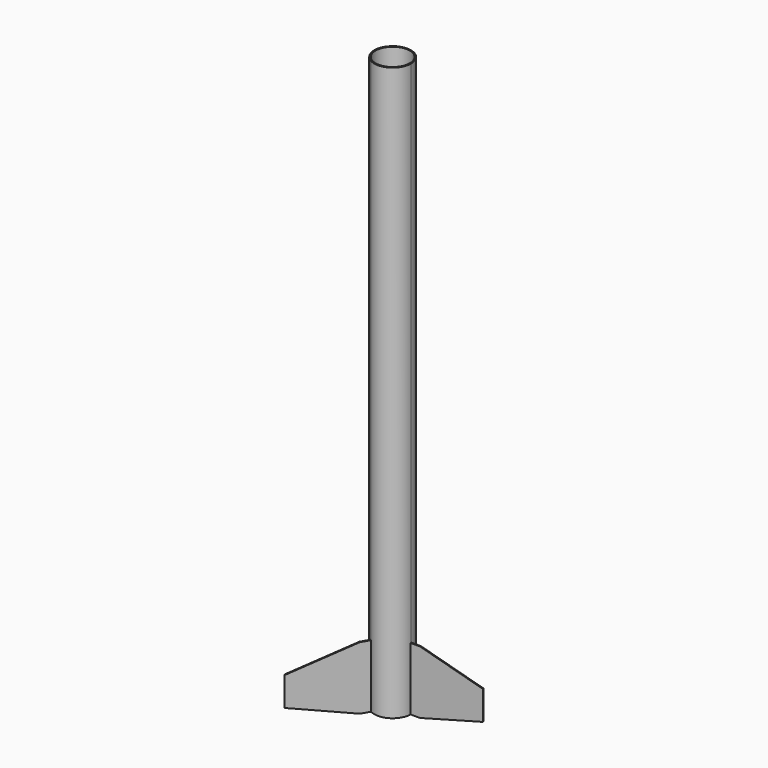
from build123d import *

# Parameters (mm, degrees)
F0_R       = 27.18
F1_DEPTH   = 910
F2_DEPTH   = 100
F3_SIZE2   = 100
F3_SIZE    = 27
F3_2_SIZE2 = 100
F3_2_SIZE  = 27
F3_3_SIZE2 = 100
F3_3_SIZE  = 27
F4_SIZE2   = 27
F4_SIZE    = 100


with BuildPart() as f1:
    # F0 (on Top) → F1 (new body)
    with BuildSketch(Plane.XY):
        with BuildLine():
            ThreePointArc((29.0890013579, -0.8), (29.0972502096, -0.4000378014), (29.1, 0))
            ThreePointArc((29.1, 0), (29.0972502096, 0.4000378014), (29.0890013579, 0.8))
            ThreePointArc((29.0890013579, 0.8), (14.55, 25.2013392501), (-13.8516803559, 25.5918141467))
            ThreePointArc((-13.8516803559, 25.5918141467), (-14.55, 25.2013392501), (-15.237321002, 24.7918141467))
            ThreePointArc((-15.237321002, 24.7918141467), (-29.1, 0), (-15.237321002, -24.7918141467))
            ThreePointArc((-15.237321002, -24.7918141467), (-14.55, -25.2013392501), (-13.8516803559, -25.5918141467))
            ThreePointArc((-13.8516803559, -25.5918141467), (14.55, -25.2013392501), (29.0890013579, -0.8))
        make_face()
        Circle(F0_R, mode=Mode.SUBTRACT)
    extrude(amount=F1_DEPTH)

    # F0 (on Top) → F2 (join)
    with BuildSketch(Plane.XY):
        with BuildLine():
            ThreePointArc((29.0890013579, 0.8), (29.0972502096, 0.4000378014), (29.1, 0))
            ThreePointArc((29.1, 0), (29.0972502096, -0.4000378014), (29.0890013579, -0.8))
            Line((29.0890013579, -0.8), (144.0890013579, -0.8))
            Line((144.0890013579, -0.8), (144.0890013579, 0.8))
            Line((144.0890013579, 0.8), (29.0890013579, 0.8))
        make_face()
        with BuildLine():
            Line((-71.3516803559, -125.1847355819), (-13.8516803559, -25.5918141467))
            ThreePointArc((-13.8516803559, -25.5918141467), (-14.55, -25.2013392501), (-15.237321002, -24.7918141467))
            Line((-15.237321002, -24.7918141467), (-72.737321002, -124.3847355819))
            Line((-72.737321002, -124.3847355819), (-71.3516803559, -125.1847355819))
        make_face()
        with BuildLine():
            ThreePointArc((-15.237321002, 24.7918141467), (-14.55, 25.2013392501), (-13.8516803559, 25.5918141467))
            Line((-13.8516803559, 25.5918141467), (-71.3516803559, 125.1847355819))
            Line((-71.3516803559, 125.1847355819), (-72.737321002, 124.3847355819))
            Line((-72.737321002, 124.3847355819), (-15.237321002, 24.7918141467))
        make_face()
    extrude(amount=F2_DEPTH)

    # F3
    f3_edges = [f1.edges().sort_by_distance(p)[0] for p in [
        (-72.044501, -124.784736, 100),
    ]]
    f3_side = f1.faces().sort_by_distance((-72.044501, -124.784736, 50))[0]
    chamfer(f3_edges, length=F3_SIZE, length2=F3_SIZE2, reference=f3_side)

    # F3#2
    f3_2_edges = [f1.edges().sort_by_distance(p)[0] for p in [
        (144.089001, 0, 100),
    ]]
    f3_2_side = f1.faces().sort_by_distance((144.089001, 0, 50))[0]
    chamfer(f3_2_edges, length=F3_2_SIZE, length2=F3_2_SIZE2, reference=f3_2_side)

    # F3#3
    f3_3_edges = [f1.edges().sort_by_distance(p)[0] for p in [
        (-72.044501, 124.784736, 100),
    ]]
    f3_3_side = f1.faces().sort_by_distance((-72.044501, 124.784736, 50))[0]
    chamfer(f3_3_edges, length=F3_3_SIZE, length2=F3_3_SIZE2, reference=f3_3_side)

    # F4
    f4_edges = [f1.edges().sort_by_distance(p)[0] for p in [
        (144.089001, 0, 0),
        (-72.044501, 124.784736, 0),
        (-72.044501, -124.784736, 0),
    ]]
    f4_side = f1.faces().sort_by_distance((-28.768792, 0, 0))[0]
    chamfer(f4_edges, length=F4_SIZE, length2=F4_SIZE2, reference=f4_side)


solid = f1.part
